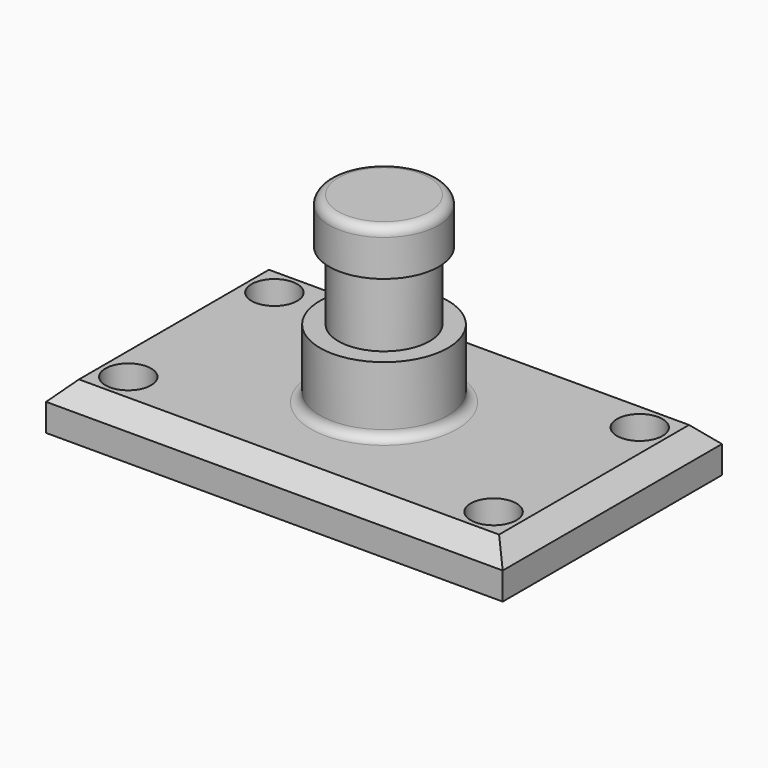
from build123d import *

# Parameters (mm, degrees)
F0_W     = 127
F0_H     = 76.2
F1_DEPTH = 12.7
F3_D     = 12.7
F5_D     = 12.7
F7_D     = 12.7
F9_D     = 12.7
F10_W    = 12.7
F10_H    = 50.8
F12_W    = 17.789466
F12_H    = 19.05
F14_W    = 15.24
F14_H    = 12.7
F16_R    = 2.54
F17_SIZE = 5.08


with BuildPart() as f1:
    # F0 (on Top) → F1 (new body)
    with BuildSketch(Plane.XY):
        Rectangle(F0_W, F0_H)
    extrude(amount=F1_DEPTH)

    # F3 (through all)
    with Locations(Plane.XY.offset(12.7)):
        with Locations((-50.8, 25.4)):
            Hole(F3_D / 2)

    # F5 (through all)
    with Locations(Plane.XY.offset(12.7)):
        with Locations((50.8, 25.4)):
            Hole(F5_D / 2)

    # F7 (through all)
    with Locations(Plane.XY.offset(12.7)):
        with Locations((-50.8, -25.4)):
            Hole(F7_D / 2)

    # F9 (through all)
    with Locations(Plane.XY.offset(12.7)):
        with Locations((50.8, -25.4)):
            Hole(F9_D / 2)

    # F10 (on Front) → F11 (revolve)
    with BuildSketch(Plane.XZ):
        with Locations((6.35, 38.1)):
            Rectangle(F10_W, F10_H)
    revolve(axis=Axis((0, 0, 38.1), (0, 0, 1)))

    # F12 (on Front) → F13 (revolve)
    with BuildSketch(Plane.XZ):
        with Locations((8.894733, 22.225)):
            Rectangle(F12_W, F12_H)
    revolve(axis=Axis((0, 0, 22.225), (0, 0, -1)))

    # F14 (on Front) → F15 (revolve)
    with BuildSketch(Plane.XZ):
        with Locations((7.62, 57.15)):
            Rectangle(F14_W, F14_H)
    revolve(axis=Axis((0, 0, 57.15), (0, 0, -1)))

    # F16
    f16_edges = [f1.edges().sort_by_distance(p)[0] for p in [
        (-15.24, 0, 63.5),
        (-17.789466, 0, 12.7),
    ]]
    fillet(f16_edges, radius=F16_R)

    # F17
    f17_edges = [f1.edges().sort_by_distance(p)[0] for p in [
        (-63.5, 0, 12.7),
        (63.5, 0, 12.7),
        (0, -38.1, 12.7),
        (0, 38.1, 12.7),
    ]]
    chamfer(f17_edges, length=F17_SIZE)


solid = f1.part
